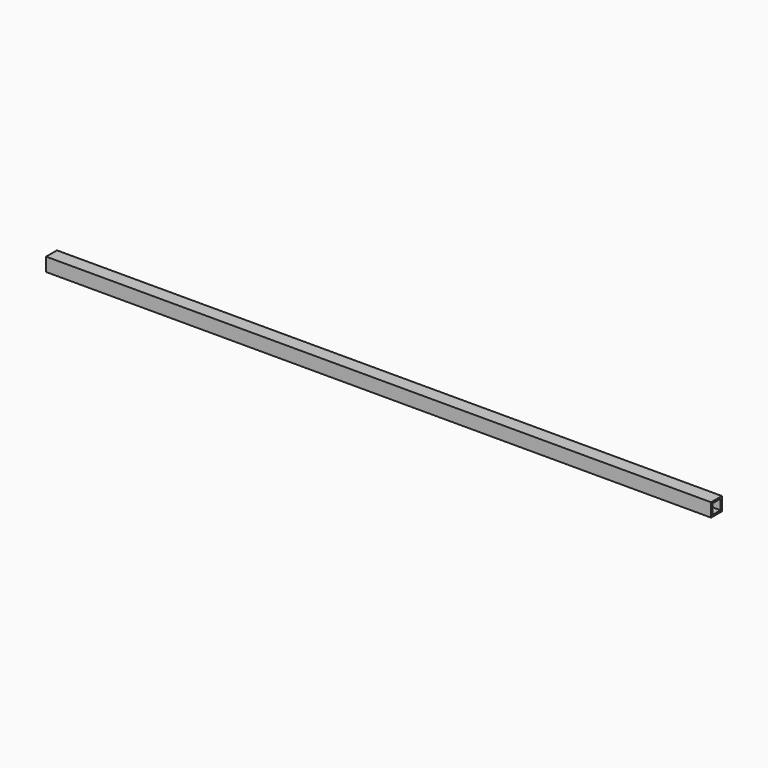
from build123d import *

# Parameters (mm, degrees)
F0_W     = 25.4
F0_H     = 25.4
F0_W_2   = 19.05
F0_H_2   = 19.05
F1_DEPTH = 1244.6


with BuildPart() as f1:
    # F0 (on Right) → F1 (new body)
    with BuildSketch(Plane.YZ):
        with Locations((12.7, 12.7)):
            Rectangle(F0_W, F0_H)
        with Locations((12.7, 12.7)):
            Rectangle(F0_W_2, F0_H_2, mode=Mode.SUBTRACT)
    extrude(amount=-F1_DEPTH)


solid = f1.part
